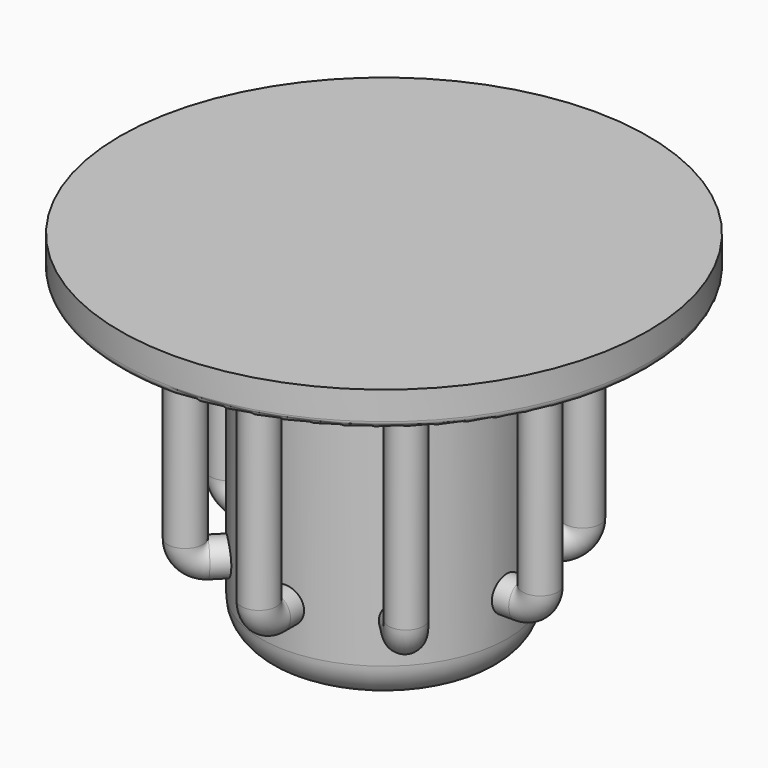
from build123d import *

# Parameters (mm, degrees)
SKETCH_R           = 75
PAD_DEPTH          = 10
SKETCH001_R        = 35
PAD001_DEPTH       = 100
FILLET_R           = 10
SKETCH003_R        = 5
POLARPATTERN_COUNT = 8
FILLET001_R        = 2


with BuildPart() as part:
    # Sketch → Pad (new body)
    with BuildSketch(Plane.XY):
        Circle(SKETCH_R)
    extrude(amount=PAD_DEPTH)

    # Sketch001 (on Face2 of Pad) → Pad001 (join)
    with BuildSketch(Plane(origin=(0, 0, 10), x_dir=(1, 0, 0), z_dir=(0, 0, -1))):
        Circle(SKETCH001_R)
    extrude(amount=PAD001_DEPTH)

    # Fillet
    fillet_edges = [part.edges().sort_by_distance(p)[0] for p in [
        (-35, 0, -90),
    ]]
    fillet(fillet_edges, radius=FILLET_R)

    # AdditivePipe: sweep along a path in Sketch002
    with BuildLine(Plane.XZ) as additivepipe_path:
        Line((23.9072250064, -68.622586505), (39.4352808184, -68.622586505))
        ThreePointArc((39.4352808184, -68.622586505), (42.9248602672, -67.1334492156), (44.3643297268, -63.6230899361))
        Line((44.3643297268, -63.6230899361), (44.3643297268, 0))
    # Sketch003 (on Face3 of Fillet) → AdditivePipe (sweep)
    with BuildSketch(Plane(origin=(0, 0, 0), x_dir=(1, 0, 0), z_dir=(0, 0, -1))):
        with Locations((44.36433, 0)):
            Circle(SKETCH003_R)
    sweep(path=additivepipe_path.line)

    # PolarPattern: part ×8 about axis
    polarpattern_axis = Axis((0, 0, 0), (0, 0, 1))


with BuildPart() as part_1:
    add(part.part)
    for i in range(1, POLARPATTERN_COUNT):
        add(part.part.rotate(polarpattern_axis, i * 360 / POLARPATTERN_COUNT))

    # Fillet001
    fillet001_edges = [part_1.edges().sort_by_distance(p)[0] for p in [
        (-28.701257, -69.290965, 0),
    ]]
    fillet(fillet001_edges, radius=FILLET001_R)


solid = part_1.part
